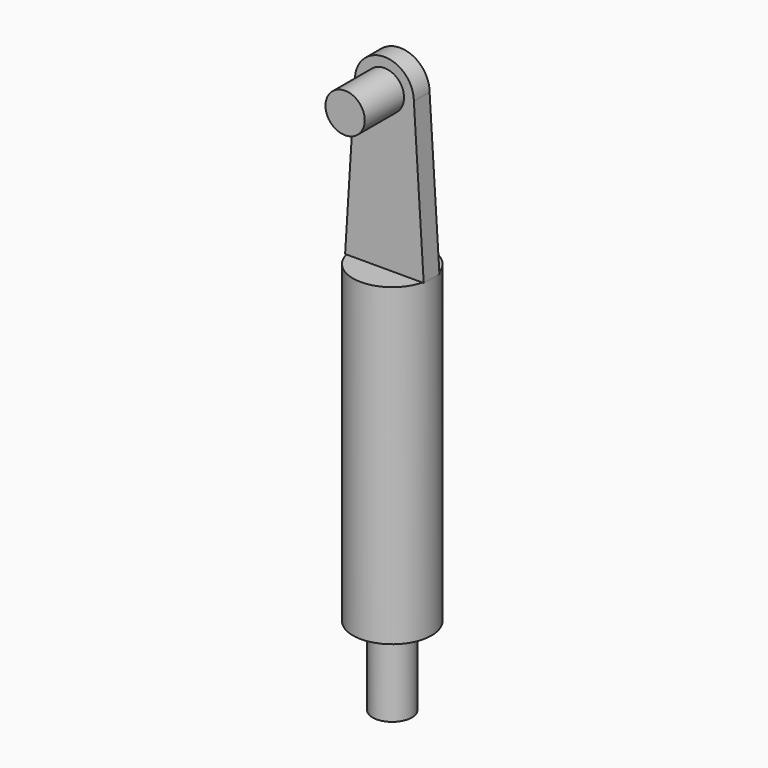
from build123d import *

# Parameters (mm, degrees)
F2_DEPTH = 3.175
F0_R     = 6.35
F3_DEPTH = 3.175
F4_DEPTH = 19.05
F0_W     = 6.35
F0_H     = 25.4
F6_DEPTH = 3.048


with BuildPart() as f1:
    # F0 (on Front) → F1 (revolve)
    with BuildSketch(Plane.XZ):
        Polygon((12.7, 93.701775), (0, 93.701775), (0, -7.898225), (6.35, -7.898225), (12.7, -7.898225), align=None)
    revolve(axis=Axis((0, 0, 42.901775), (0, 0, -1)))

    # F0 (on Front) → F2 (join, symmetric)
    with BuildSketch(Plane.XZ):
        with BuildLine():
            Line((-9.525, 144.402459), (-12.7, 93.701775))
            Line((-12.7, 93.701775), (0, 93.701775))
            Line((0, 93.701775), (12.7, 93.701775))
            Line((12.7, 93.701775), (9.525, 144.402459))
            ThreePointArc((9.525, 144.402459), (0, 134.877459), (-9.525, 144.402459))
        make_face()
    extrude(amount=F2_DEPTH, both=True)

    # F0 (on Front) → F3 (join, symmetric)
    with BuildSketch(Plane.XZ):
        with BuildLine():
            ThreePointArc((9.525, 144.402459), (0, 153.927459), (-9.525, 144.402459))
            ThreePointArc((-9.525, 144.402459), (0, 134.877459), (9.525, 144.402459))
        make_face()
        with Locations((0, 144.402459)):
            Circle(F0_R, mode=Mode.SUBTRACT)
    extrude(amount=F3_DEPTH, both=True)

    # F0 (on Front) → F4 (join)
    with BuildSketch(Plane.XZ):
        with Locations((0, 144.402459)):
            Circle(F0_R)
    extrude(amount=F4_DEPTH)

    # F0 (on Front) → F5 (revolve)
    with BuildSketch(Plane.XZ):
        with Locations((3.175, -20.598225)):
            Rectangle(F0_W, F0_H)
    revolve(axis=Axis((0, 0, -20.598225), (0, 0, -1)))

    # F0 (on Front) → F6 (join)
    with BuildSketch(Plane.XZ):
        with Locations((0, 144.402459)):
            Circle(F0_R)
    extrude(amount=-F6_DEPTH)


solid = f1.part
